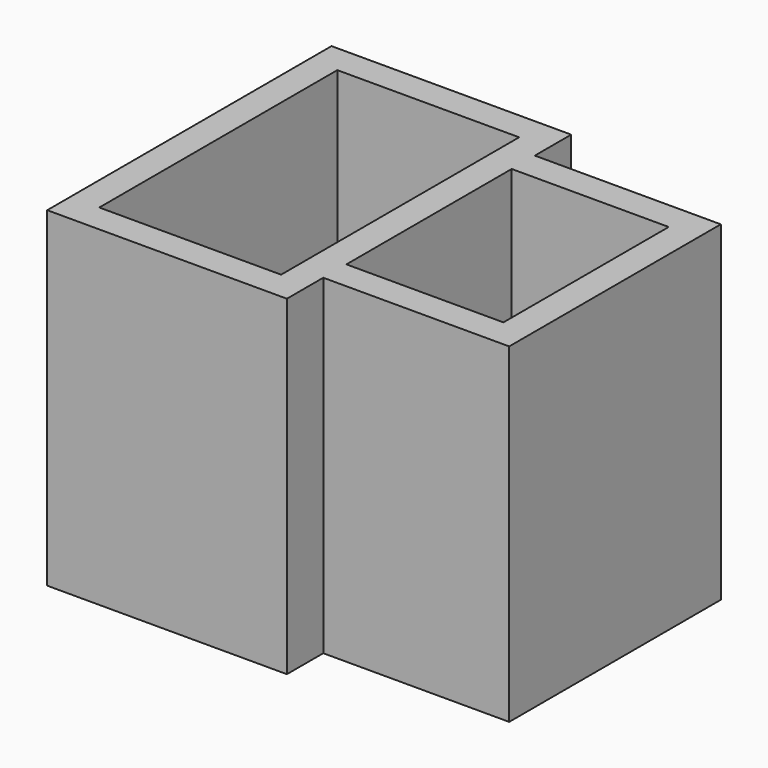
from build123d import *

# Parameters (mm, degrees)
F1_DEPTH = 40


with BuildPart() as f1:
    # F0 (on Top) → F1 (new body)
    with BuildSketch(Plane.XY):
        Polygon((22.5, 17.604167), (0, 17.604167), (0, 22.416667), (0, 23.104167), (-3.5, 23.104167), (-25.5, 23.104167), (-29, 23.104167), (-29, 19.604167), (-29, -8.020833), (-29, -16.395833), (-29, -19.895833), (-25.5, -19.895833), (-3.5, -19.895833), (0, -19.895833), (0, -14.395833), (22.5, -14.395833), align=None)
        Polygon((-3.5, 17.604167), (-3.5, -14.395833), (-3.5, -16.395833), (-25.5, -16.395833), (-25.5, -8.020833), (-25.5, 11.229167), (-25.5, 19.604167), (-3.5, 19.604167), align=None, mode=Mode.SUBTRACT)
        Polygon((19, -10.895833), (0, -10.895833), (0, -10.883333), (0, -8.770833), (0, 14.104167), (19, 14.104167), align=None, mode=Mode.SUBTRACT)
    extrude(amount=F1_DEPTH)


solid = f1.part
